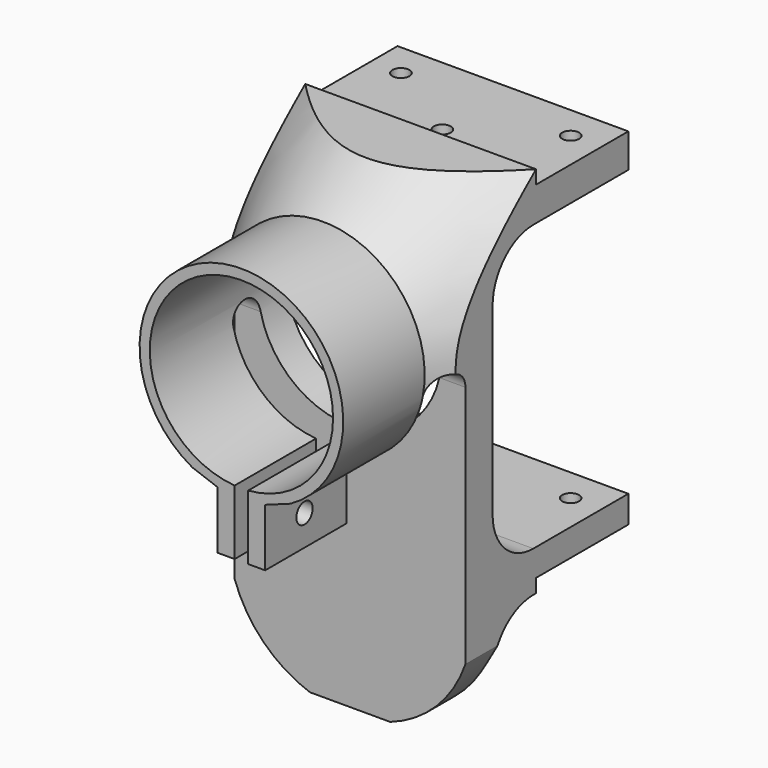
from build123d import *

# Parameters (mm, degrees)
SKETCH016_AS_DRAWN_R                 = 13.5
EXTRUDE001_DEPTH                     = 30
EXTRUDE001_ONTO_SKETCH016_ROLL_ANGLE = 90
SKETCH017_AS_DRAWN_W                 = 2
SKETCH017_AS_DRAWN_H                 = 25
EXTRUDE002_DEPTH                     = 20
EXTRUDE002_ONTO_SKETCH017_ROLL_ANGLE = 90
SKETCH020_W                          = 40
SKETCH020_H                          = 28
EXTRUDE003_DEPTH                     = 3
EXTRUDE004_DEPTH                     = 3
SKETCH021_R                          = 1.25
EXTRUDE005_DEPTH                     = 15
EXTRUDE006_DEPTH                     = 15
SKETCH023_W                          = 45
SKETCH023_H                          = 10
SKETCH_R                             = 1.5
EXTRUDE_DEPTH                        = 38
SKETCH014_W                          = 16
SKETCH014_H                          = 20
BOX_W                                = 34
BOX_H                                = 50
BOX_DEPTH                            = 70


with BuildPart() as extrude_tube_hole:
    # Sketch016 as drawn → Extrude001 (new)
    with BuildSketch(Plane.XY):
        with Locations((0, 50)):
            Circle(SKETCH016_AS_DRAWN_R)
    extrude(amount=-EXTRUDE001_DEPTH)


with BuildPart() as extrude_tube_hole_1:
    # Extrude001 onto Sketch016 roll: moved
    add(extrude_tube_hole.part.rotate(Axis((0, 0, 0), (1, 0, 0)), EXTRUDE001_ONTO_SKETCH016_ROLL_ANGLE))


with BuildPart() as extrude_tube_hole_2:
    # Extrude001 onto Sketch016 placement: moved
    add(extrude_tube_hole_1.part)


with BuildPart() as extrude_tube_hole_3:
    # Extrude001 placement: moved
    add(extrude_tube_hole_2.part.moved(Location((0, -1, 0))))


with BuildPart() as arc_ext:
    # Sketch017 as drawn → Extrude002 (new)
    with BuildSketch(Plane.XY):
        Polygon((3.5, 35.5), (20, 41.505509), (20, 20), (3.5, 20), align=None)
        Polygon((-3.5, 35.5), (-20, 41.505509), (-20, 20), (-3.5, 20), align=None)
        with Locations((0, 27.5)):
            Rectangle(SKETCH017_AS_DRAWN_W, SKETCH017_AS_DRAWN_H)
    extrude(amount=-EXTRUDE002_DEPTH)


with BuildPart() as arc_ext_1:
    # Extrude002 onto Sketch017 roll: moved
    add(arc_ext.part.rotate(Axis((0, 0, 0), (1, 0, 0)), EXTRUDE002_ONTO_SKETCH017_ROLL_ANGLE))


with BuildPart() as arc_ext_2:
    # Extrude002 onto Sketch017 placement: moved
    add(arc_ext_1.part)


with BuildPart() as arc_ext_3:
    # Extrude002 placement: moved
    add(arc_ext_2.part.moved(Location((0, -1, 0))))


with BuildPart() as extrude003:
    # Sketch020 → Extrude003 (new body)
    with BuildSketch(Plane.XY):
        with Locations((0, 47)):
            Rectangle(SKETCH020_W, SKETCH020_H)
    extrude(amount=EXTRUDE003_DEPTH)


with BuildPart() as extrude003_1:
    # Extrude003 placement: moved
    add(extrude003.part.moved(Location((0, 0, 68))))


with BuildPart() as extrude004:
    # Sketch020 → Extrude004 (new body)
    with BuildSketch(Plane.XY):
        with Locations((0, 47)):
            Rectangle(SKETCH020_W, SKETCH020_H)
    extrude(amount=EXTRUDE004_DEPTH)


with BuildPart() as extrude004_1:
    # Extrude004 placement: moved
    add(extrude004.part.moved(Location((0, 0, 14))))


with BuildPart() as extrude005:
    # Sketch021 → Extrude005 (new body)
    with BuildSketch(Plane.XY):
        with Locations((-12.5, 45)):
            Circle(SKETCH021_R)
        with Locations((12.5, 45)):
            Circle(SKETCH021_R)
        with Locations((0, 37)):
            Circle(SKETCH021_R)
    extrude(amount=EXTRUDE005_DEPTH)


with BuildPart() as extrude005_1:
    # Extrude005 placement: moved
    add(extrude005.part.moved(Location((0, 0, 13))))


with BuildPart() as extrude006:
    # Sketch021 → Extrude006 (new body)
    with BuildSketch(Plane.XY):
        with Locations((-12.5, 45)):
            Circle(SKETCH021_R)
        with Locations((12.5, 45)):
            Circle(SKETCH021_R)
        with Locations((0, 37)):
            Circle(SKETCH021_R)
    extrude(amount=EXTRUDE006_DEPTH)


with BuildPart() as extrude006_1:
    # Extrude006 placement: moved
    add(extrude006.part.moved(Location((0, 0, 58))))


with BuildPart() as sweep002:
    # Sweep002: sweep along a path in Sketch022
    with BuildLine(Plane.XZ) as sweep002_path:
        ThreePointArc((-18, 17), (0, -1), (18, 17))
    # Sketch023 → Sweep002 (sweep)
    with BuildSketch(Plane.YZ):
        with Locations((21.5, -6)):
            Rectangle(SKETCH023_W, SKETCH023_H)
    sweep(path=sweep002_path.line)


with BuildPart() as fusion001:
    # Sketch → Extrude (new body)
    with BuildSketch(Plane.YZ):
        with Locations((7.25, 31.5)):
            Circle(SKETCH_R)
        with BuildLine():
            Line((61, 63), (32.5, 63))
            ThreePointArc((32.5, 63), (27.196699, 60.803301), (25, 55.5))
            Line((25, 55.5), (25, 28.5))
            ThreePointArc((25, 28.5), (27.196699, 23.196699), (32.5, 21))
            Line((32.5, 21), (61, 21))
            Line((61, 21), (61, 63))
        make_face()
        with BuildLine():
            Line((61, 15), (32.5, 15))
            ThreePointArc((32.5, 15), (27.196699, 12.803301), (25, 7.5))
            Line((25, 7.5), (25, -2))
            Line((25, -2), (61, -2))
            Line((61, -2), (61, 15))
        make_face()
        with BuildLine():
            Line((20, 47), (20, -2))
            Line((20, -2), (-0.5, -2))
            Line((-0.5, -2), (-0.5, 27))
            Line((-0.5, 27), (15, 27))
            Line((15, 27), (15, 47))
            ThreePointArc((20, 47), (17.5, 49.5), (15, 47))
        make_face()
    extrude(amount=EXTRUDE_DEPTH)


with BuildPart() as fusion001_1:
    # Extrude placement: moved
    add(fusion001.part.moved(Location((-19, 0, 0))))

    # Fusion001: union Extrude-tube-hole, arc-ext, Extrude003, Extrude004, Extrude005, Extrude006, Sweep002
    add(extrude_tube_hole_3.part)
    add(arc_ext_3.part)
    add(extrude003_1.part)
    add(extrude004_1.part)
    add(extrude005_1.part)
    add(extrude006_1.part)
    add(sweep002.part)


with BuildPart() as sweep_body:
    # Sweep: sweep along a path in Sketch015
    with BuildLine(Plane.XZ) as sweep_path:
        ThreePointArc((4, 40.834849), (0, 60), (-4, 40.834849))
    # Sketch014 → Sweep (sweep)
    with BuildSketch(Plane(origin=(0, -1, 0), x_dir=(0, 1, 0), z_dir=(1, 0, 0))):
        with Locations((8, 75)):
            Rectangle(SKETCH014_W, SKETCH014_H)
    sweep(path=sweep_path.line)


with BuildPart() as fusion:
    # Sweep001: sweep along a path in Sketch019
    with BuildLine(Plane.XZ) as sweep001_path:
        ThreePointArc((9.439809, 46.7), (0, 60), (-9.439809, 46.7))
    # Sketch018 → Sweep001 (sweep)
    with BuildSketch(Plane(origin=(0, -1, 0), x_dir=(0, 1, 0), z_dir=(1, 0, 0))):
        Polygon((16, 65), (16, 83.121211), (45, 83.121211), align=None)
    sweep(path=sweep001_path.line)

    # Fusion: union Sweep body
    add(sweep_body.part)


with BuildPart() as cut001:
    # Box → Box (new body)
    with BuildSketch(Plane(origin=(-17, 0, 0), x_dir=(1, 0, 0), z_dir=(0, 0, 1))):
        with Locations((17, 25)):
            Rectangle(BOX_W, BOX_H)
    extrude(amount=BOX_DEPTH)

    # Cut: cut Fusion
    add(fusion.part, mode=Mode.SUBTRACT)

    # Cut001: cut Fusion001
    add(fusion001_1.part, mode=Mode.SUBTRACT)


solid = cut001.part
